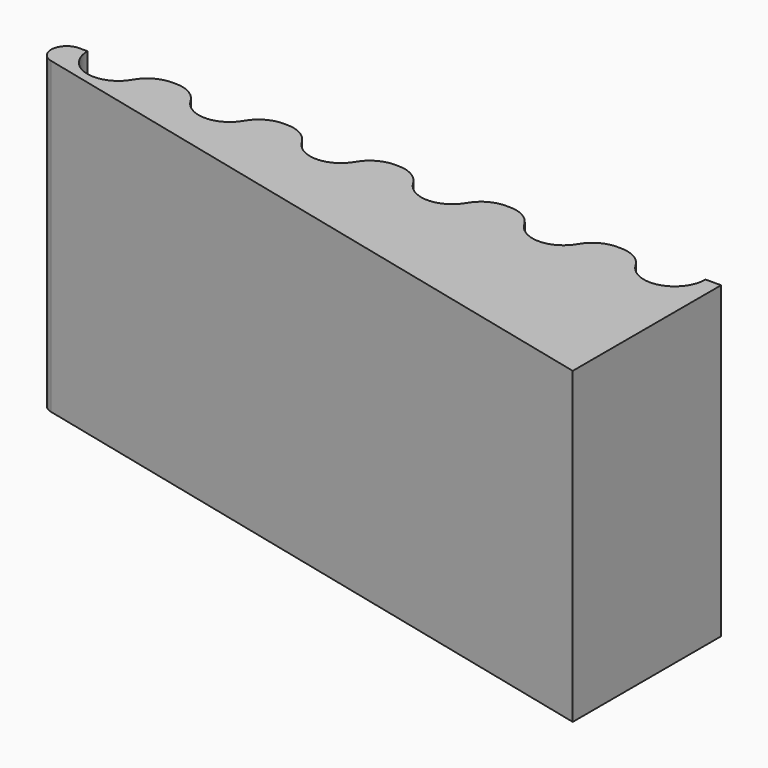
from build123d import *

# Parameters (mm, degrees)
PAD_DEPTH           = 20
FILLET_R            = 1
SKETCH001_R         = 2
POCKET_DEPTH        = 20.001
LINEARPATTERN_COUNT = 6
LINEARPATTERN_PITCH = 7.2
FILLET001_R         = 2


with BuildPart() as part:
    # Sketch → Pad (new body)
    with BuildSketch(Plane.XY):
        Polygon((0, 0), (50, 0), (50, -12), align=None)
    extrude(amount=PAD_DEPTH)

    # Fillet
    fillet_edges = [part.edges().sort_by_distance(p)[0] for p in [
        (0, 0, 10),
    ]]
    fillet(fillet_edges, radius=FILLET_R)

    # Sketch001 (on Face5 of Fillet) → Pocket (cut, through all)
    with BuildSketch(Plane.XY.offset(20)):
        with Locations((47, 0)):
            Circle(SKETCH001_R)
    pocket = extrude(amount=-POCKET_DEPTH, mode=Mode.SUBTRACT)

    # LinearPattern: Pocket ×6
    with Locations(*[(-i * LINEARPATTERN_PITCH, 0, 0) for i in range(1, LINEARPATTERN_COUNT)]):
        add(pocket, mode=Mode.SUBTRACT)

    # Fillet001
    fillet001_edges = [part.edges().sort_by_distance(p)[0] for p in [
        (13, 0, 10),
        (16.2, 0, 10),
        (20.2, 0, 10),
        (23.4, 0, 10),
        (27.4, 0, 10),
        (30.6, 0, 10),
        (34.6, 0, 10),
        (37.8, 0, 10),
        (41.8, 0, 10),
        (45, 0, 10),
    ]]
    fillet(fillet001_edges, radius=FILLET001_R)


solid = part.part
